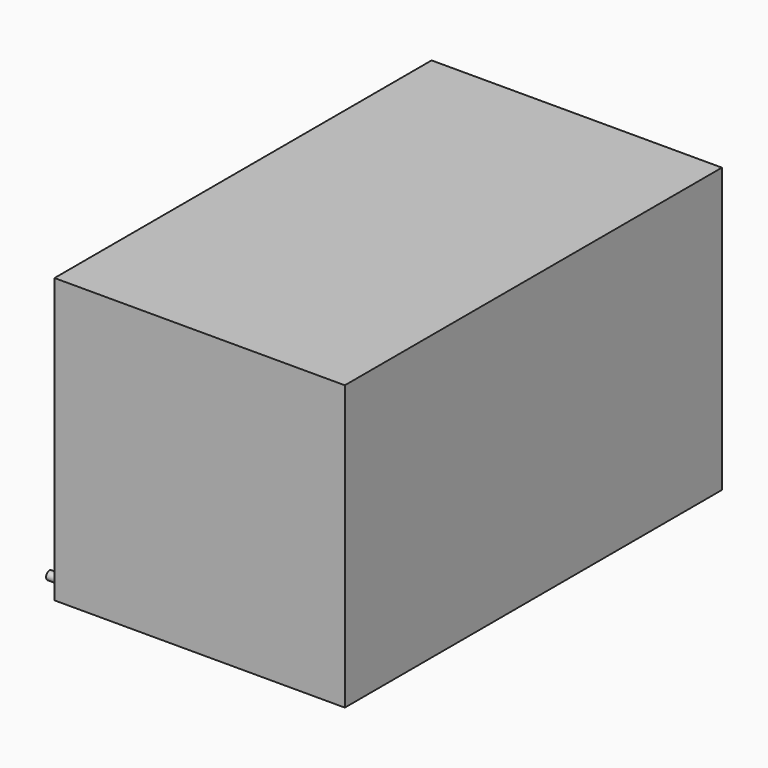
from build123d import *

# Parameters (mm, degrees)
F0_W      = 82.4321992695
F0_H      = 43.8606161624
F1_DEPTH  = 431.8
F2_DEPTH  = 54.864
F3_R      = 7.0871309168
F4_DEPTH  = 20.574
F5_R      = 7.362788809
F6_DEPTH  = 14.478
F7_DEPTH  = 34.544
F8_DEPTH  = 37.084
F9_DEPTH  = 673.1
F10_DEPTH = 431.8


with BuildPart() as f1:
    # F0 (on Right) → F1 (new body)
    with BuildSketch(Plane.YZ):
        with Locations((-5.2245799452, 3.5912198946)):
            Rectangle(F0_W, F0_H)
    extrude(amount=F1_DEPTH)

    # F2 (add): a face of the model
    f2_faces = [f1.faces().sort_by_distance(p)[0] for p in [
        (0, -5.2245799452, 3.5912198946),
    ]]
    extrude(f2_faces, amount=F2_DEPTH)

    # F3 (on face) → F4 (join)
    with BuildSketch(Plane(origin=(-54.864, 0, 0), x_dir=(0, -1, 0), z_dir=(-1, 0, 0))):
        with Locations((31.2521867454, 5.9642316774)):
            Circle(F3_R)
    extrude(amount=F4_DEPTH)

    # F5 (on face) → F6 (join)
    with BuildSketch(Plane(origin=(0, 35.9915196896, 0), x_dir=(-1, 0, 0), z_dir=(0, 1, 0))):
        with Locations((0, 5.1426673308)):
            Circle(F5_R)
    extrude(amount=F6_DEPTH)

    # F7 (add): a face of the model
    f7_faces = [f1.faces().sort_by_distance(p)[0] for p in [
        (189.9838185674, 35.9915196896, 3.5787418462),
    ]]
    extrude(f7_faces, amount=F7_DEPTH)

    # F8 (add): a face of the model
    f8_faces = [f1.faces().sort_by_distance(p)[0] for p in [
        (0, 50.4695196896, 5.1426673308),
    ]]
    extrude(f8_faces, amount=F8_DEPTH)

    # F9 (add): a face of the model
    f9_faces = [f1.faces().sort_by_distance(p)[0] for p in [
        (189.9838185674, 70.5355196896, 3.5787418462),
    ]]
    extrude(f9_faces, amount=F9_DEPTH)

    # F10 (add): a face of the model
    f10_faces = [f1.faces().sort_by_distance(p)[0] for p in [
        (188.468, 348.5974200548, 25.5215279758),
    ]]
    extrude(f10_faces, amount=F10_DEPTH)


solid = f1.part
